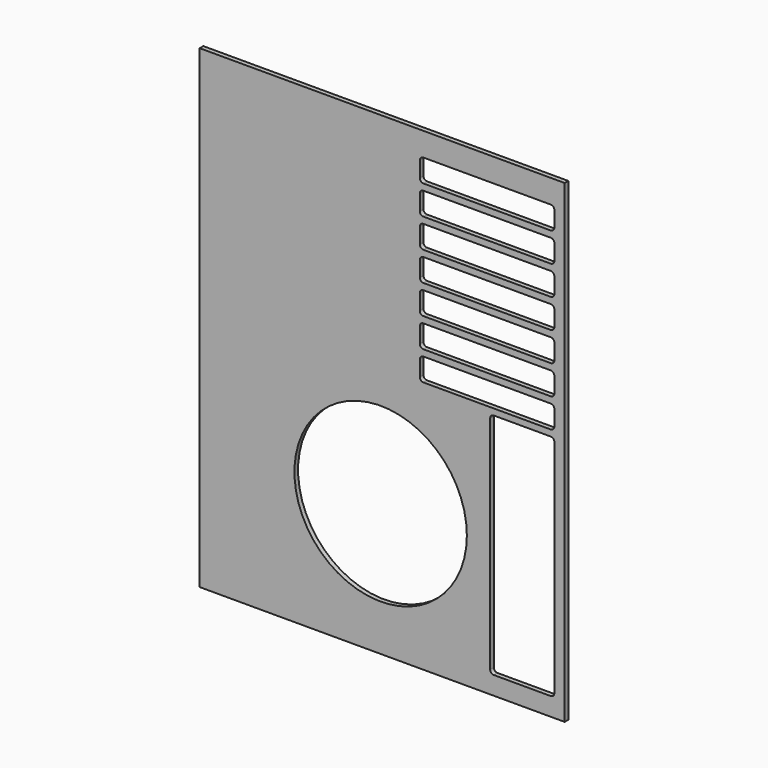
from build123d import *

# Parameters (mm, degrees)
F0_W     = 254
F0_H     = 330.2
F1_DEPTH = 3.175
F3_DEPTH = 3.175
F4_R     = 60
F5_DEPTH = 3.175


with BuildPart() as f1:
    # F0 (on Front) → F1 (new body)
    with BuildSketch(Plane.XZ):
        with Locations((-49.04184, 40.386009)):
            Rectangle(F0_W, F0_H)
    extrude(amount=F1_DEPTH)

    # F2 (on face) → F3 (cut, through all)
    with BuildSketch(Plane.XZ.offset(3.175)):
        with BuildLine():
            ThreePointArc((68.25536, 173.240709), (68.344315, 173.242267), (68.43316, 173.24694))
            Line((68.43316, 173.24694), (68.43316, 189.109479))
            ThreePointArc((68.43316, 189.109479), (68.344315, 189.114151), (68.25536, 189.115709))
            Line((68.25536, 189.115709), (-20.33984, 189.115709))
            ThreePointArc((-20.33984, 189.115709), (-22.135891, 188.371761), (-22.87984, 186.575709))
            Line((-22.87984, 186.575709), (-22.87984, 175.780709))
            ThreePointArc((-22.87984, 175.780709), (-22.135891, 173.984658), (-20.33984, 173.240709))
            Line((-20.33984, 173.240709), (68.25536, 173.240709))
        make_face()
        with BuildLine():
            Line((68.43316, 189.109479), (68.43316, 173.24694))
            ThreePointArc((68.43316, 173.24694), (70.11321, 174.04866), (70.79536, 175.780709))
            Line((70.79536, 175.780709), (70.79536, 186.575709))
            ThreePointArc((70.79536, 186.575709), (70.11321, 188.307758), (68.43316, 189.109479))
        make_face()
        with BuildLine():
            ThreePointArc((68.25536, 152.920709), (68.344315, 152.922267), (68.43316, 152.92694))
            Line((68.43316, 152.92694), (68.43316, 168.789479))
            ThreePointArc((68.43316, 168.789479), (68.344315, 168.794151), (68.25536, 168.795709))
            Line((68.25536, 168.795709), (-20.33984, 168.795709))
            ThreePointArc((-20.33984, 168.795709), (-22.135891, 168.051761), (-22.87984, 166.255709))
            Line((-22.87984, 166.255709), (-22.87984, 155.460709))
            ThreePointArc((-22.87984, 155.460709), (-22.135891, 153.664658), (-20.33984, 152.920709))
            Line((-20.33984, 152.920709), (68.25536, 152.920709))
        make_face()
        with BuildLine():
            Line((68.43316, 168.789479), (68.43316, 152.92694))
            ThreePointArc((68.43316, 152.92694), (70.11321, 153.72866), (70.79536, 155.460709))
            Line((70.79536, 155.460709), (70.79536, 166.255709))
            ThreePointArc((70.79536, 166.255709), (70.11321, 167.987758), (68.43316, 168.789479))
        make_face()
        with BuildLine():
            ThreePointArc((68.25536, 132.600709), (68.344315, 132.602267), (68.43316, 132.60694))
            Line((68.43316, 132.60694), (68.43316, 148.469479))
            ThreePointArc((68.43316, 148.469479), (68.344315, 148.474151), (68.25536, 148.475709))
            Line((68.25536, 148.475709), (-20.33984, 148.475709))
            ThreePointArc((-20.33984, 148.475709), (-22.135891, 147.731761), (-22.87984, 145.935709))
            Line((-22.87984, 145.935709), (-22.87984, 135.140709))
            ThreePointArc((-22.87984, 135.140709), (-22.135891, 133.344658), (-20.33984, 132.600709))
            Line((-20.33984, 132.600709), (68.25536, 132.600709))
        make_face()
        with BuildLine():
            Line((68.43316, 148.469479), (68.43316, 132.60694))
            ThreePointArc((68.43316, 132.60694), (70.11321, 133.40866), (70.79536, 135.140709))
            Line((70.79536, 135.140709), (70.79536, 145.935709))
            ThreePointArc((70.79536, 145.935709), (70.11321, 147.667758), (68.43316, 148.469479))
        make_face()
        with BuildLine():
            ThreePointArc((68.25536, 112.280709), (68.344315, 112.282267), (68.43316, 112.28694))
            Line((68.43316, 112.28694), (68.43316, 128.149479))
            ThreePointArc((68.43316, 128.149479), (68.344315, 128.154151), (68.25536, 128.155709))
            Line((68.25536, 128.155709), (-20.33984, 128.155709))
            ThreePointArc((-20.33984, 128.155709), (-22.135891, 127.411761), (-22.87984, 125.615709))
            Line((-22.87984, 125.615709), (-22.87984, 114.820709))
            ThreePointArc((-22.87984, 114.820709), (-22.135891, 113.024658), (-20.33984, 112.280709))
            Line((-20.33984, 112.280709), (68.25536, 112.280709))
        make_face()
        with BuildLine():
            Line((68.43316, 128.149479), (68.43316, 112.28694))
            ThreePointArc((68.43316, 112.28694), (70.11321, 113.08866), (70.79536, 114.820709))
            Line((70.79536, 114.820709), (70.79536, 125.615709))
            ThreePointArc((70.79536, 125.615709), (70.11321, 127.347758), (68.43316, 128.149479))
        make_face()
        with BuildLine():
            ThreePointArc((68.25536, 91.960709), (68.344315, 91.962267), (68.43316, 91.96694))
            Line((68.43316, 91.96694), (68.43316, 107.829479))
            ThreePointArc((68.43316, 107.829479), (68.344315, 107.834151), (68.25536, 107.835709))
            Line((68.25536, 107.835709), (-20.33984, 107.835709))
            ThreePointArc((-20.33984, 107.835709), (-22.135891, 107.091761), (-22.87984, 105.295709))
            Line((-22.87984, 105.295709), (-22.87984, 94.500709))
            ThreePointArc((-22.87984, 94.500709), (-22.135891, 92.704658), (-20.33984, 91.960709))
            Line((-20.33984, 91.960709), (68.25536, 91.960709))
        make_face()
        with BuildLine():
            Line((68.43316, 107.829479), (68.43316, 91.96694))
            ThreePointArc((68.43316, 91.96694), (70.11321, 92.76866), (70.79536, 94.500709))
            Line((70.79536, 94.500709), (70.79536, 105.295709))
            ThreePointArc((70.79536, 105.295709), (70.11321, 107.027758), (68.43316, 107.829479))
        make_face()
        with BuildLine():
            ThreePointArc((68.25536, 71.640709), (68.344315, 71.642267), (68.43316, 71.64694))
            Line((68.43316, 71.64694), (68.43316, 87.509479))
            ThreePointArc((68.43316, 87.509479), (68.344315, 87.514151), (68.25536, 87.515709))
            Line((68.25536, 87.515709), (-20.33984, 87.515709))
            ThreePointArc((-20.33984, 87.515709), (-22.135891, 86.771761), (-22.87984, 84.975709))
            Line((-22.87984, 84.975709), (-22.87984, 74.180709))
            ThreePointArc((-22.87984, 74.180709), (-22.135891, 72.384658), (-20.33984, 71.640709))
            Line((-20.33984, 71.640709), (68.25536, 71.640709))
        make_face()
        with BuildLine():
            Line((68.43316, 87.509479), (68.43316, 71.64694))
            ThreePointArc((68.43316, 71.64694), (70.11321, 72.44866), (70.79536, 74.180709))
            Line((70.79536, 74.180709), (70.79536, 84.975709))
            ThreePointArc((70.79536, 84.975709), (70.11321, 86.707758), (68.43316, 87.509479))
        make_face()
        with BuildLine():
            ThreePointArc((68.25536, 51.320709), (68.344315, 51.322267), (68.43316, 51.32694))
            Line((68.43316, 51.32694), (68.43316, 67.189479))
            ThreePointArc((68.43316, 67.189479), (68.344315, 67.194151), (68.25536, 67.195709))
            Line((68.25536, 67.195709), (-20.33984, 67.195709))
            ThreePointArc((-20.33984, 67.195709), (-22.135891, 66.451761), (-22.87984, 64.655709))
            Line((-22.87984, 64.655709), (-22.87984, 53.860709))
            ThreePointArc((-22.87984, 53.860709), (-22.135891, 52.064658), (-20.33984, 51.320709))
            Line((-20.33984, 51.320709), (68.25536, 51.320709))
        make_face()
        with BuildLine():
            Line((68.43316, 67.189479), (68.43316, 51.32694))
            ThreePointArc((68.43316, 51.32694), (70.11321, 52.12866), (70.79536, 53.860709))
            Line((70.79536, 53.860709), (70.79536, 64.655709))
            ThreePointArc((70.79536, 64.655709), (70.11321, 66.387758), (68.43316, 67.189479))
        make_face()
        with BuildLine():
            Line((68.25536, 46.990009), (28.63136, 46.990009))
            ThreePointArc((28.63136, 46.990009), (26.835309, 46.246061), (26.09136, 44.450009))
            Line((26.09136, 44.450009), (26.09136, -109.473991))
            ThreePointArc((26.09136, -109.473991), (26.835309, -111.270042), (28.63136, -112.013991))
            Line((28.63136, -112.013991), (68.25536, -112.013991))
            ThreePointArc((68.25536, -112.013991), (70.051412, -111.270042), (70.79536, -109.473991))
            Line((70.79536, -109.473991), (70.79536, 44.450009))
            ThreePointArc((70.79536, 44.450009), (70.11321, 46.182058), (68.43316, 46.983779))
            ThreePointArc((68.43316, 46.983779), (68.344315, 46.988451), (68.25536, 46.990009))
        make_face()
    extrude(amount=-F3_DEPTH, mode=Mode.SUBTRACT)

    # F4 (on face) → F5 (cut, through all)
    with BuildSketch(Plane.XZ.offset(3.175)):
        with Locations((-50.10864, -32.638991)):
            Circle(F4_R)
    extrude(amount=-F5_DEPTH, mode=Mode.SUBTRACT)


solid = f1.part
